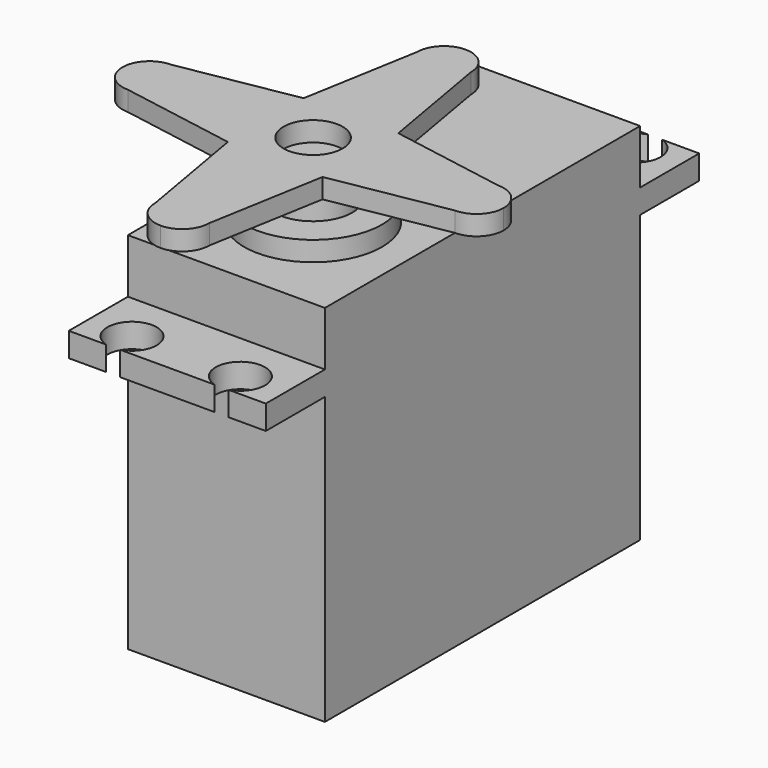
from build123d import *

# Parameters (mm, degrees)
F0_R     = 7
F0_R_2   = 3
F1_DEPTH = 2
F2_DEPTH = 5.5
F0_W     = 20
F0_H     = 40
F3_DEPTH = 37
F4_START = -5.5
F4_DEPTH = 2.45
F5_R     = 4
F5_R_2   = 3
F6_DEPTH = 2
F7_DEPTH = 3.4


with BuildPart() as f1:
    # F0 (on Top) → F1 (new body)
    with BuildSketch(Plane.XY):
        Circle(F0_R)
        Circle(F0_R_2, mode=Mode.SUBTRACT)
        Circle(F0_R_2)
    extrude(amount=F1_DEPTH)

    # F0 (on Top) → F2 (join)
    with BuildSketch(Plane.XY):
        Circle(F0_R_2)
    extrude(amount=F2_DEPTH)

    # F0 (on Top) → F3 (join)
    with BuildSketch(Plane.XY):
        with Locations((0, 9)):
            Rectangle(F0_W, F0_H)
        Circle(F0_R, mode=Mode.SUBTRACT)
        Circle(F0_R)
        Circle(F0_R_2, mode=Mode.SUBTRACT)
        Circle(F0_R_2)
    extrude(amount=-F3_DEPTH)

    # F0 (on Top) → F4 (join)
    with BuildSketch(Plane.XY.offset(F4_START)):
        with BuildLine():
            Line((-10, 29), (10, 29))
            Line((10, 29), (10, 36.5))
            Line((10, 36.5), (6.2, 36.5))
            ThreePointArc((6.2, 36.5), (7.5, 35.6), (8, 34.1))
            ThreePointArc((8, 34.1), (4, 32.1), (4.8, 36.5))
            Line((4.8, 36.5), (-4.3294117647, 36.5))
            ThreePointArc((-4.3294117647, 36.5), (-3.0294117647, 35.6), (-2.5294117647, 34.1))
            ThreePointArc((-2.5294117647, 34.1), (-6.5294117647, 32.1), (-5.7294117647, 36.5))
            Line((-5.7294117647, 36.5), (-10, 36.5))
            Line((-10, 36.5), (-10, 29))
        make_face()
        with BuildLine():
            Line((6.2, -18.5), (10, -18.5))
            Line((10, -18.5), (10, -11))
            Line((10, -11), (-10, -11))
            Line((-10, -11), (-10, -18.5))
            Line((-10, -18.5), (-6.2, -18.5))
            ThreePointArc((-6.2, -18.5), (-7, -14.1), (-3, -16.1))
            ThreePointArc((-3, -16.1), (-3.5, -17.6), (-4.8, -18.5))
            Line((-4.8, -18.5), (4.8, -18.5))
            ThreePointArc((4.8, -18.5), (4, -14.1), (8, -16.1))
            ThreePointArc((8, -16.1), (7.5, -17.6), (6.2, -18.5))
        make_face()
    extrude(amount=-F4_DEPTH)


with BuildPart() as f6:
    # F5 (on face) → F6 (new body)
    with BuildSketch(Plane.XY.offset(5.5)):
        with BuildLine():
            ThreePointArc((-16.6, 2.75), (-18.5445436483, 1.9445436483), (-19.35, 0))
            ThreePointArc((-19.35, 0), (-18.5445436483, -1.9445436483), (-16.6, -2.75))
            Line((-16.6, -2.75), (-4.8083261121, -4.8083261121))
            Line((-4.8083261121, -4.8083261121), (-2.75, -16.6))
            ThreePointArc((-2.75, -16.6), (-1.9445436483, -18.5445436483), (0, -19.35))
            ThreePointArc((0, -19.35), (1.9445436483, -18.5445436483), (2.75, -16.6))
            Line((2.75, -16.6), (4.8083261121, -4.8083261121))
            Line((4.8083261121, -4.8083261121), (16.6, -2.75))
            ThreePointArc((16.6, -2.75), (18.5445436483, -1.9445436483), (19.35, 0))
            ThreePointArc((19.35, 0), (18.5445436483, 1.9445436483), (16.6, 2.75))
            Line((16.6, 2.75), (4.8083261121, 4.8083261121))
            Line((4.8083261121, 4.8083261121), (2.75, 16.6))
            ThreePointArc((2.75, 16.6), (1.9445436483, 18.5445436483), (0, 19.35))
            ThreePointArc((0, 19.35), (-1.9445436483, 18.5445436483), (-2.75, 16.6))
            Line((-2.75, 16.6), (-4.8083261121, 4.8083261121))
            Line((-4.8083261121, 4.8083261121), (-16.6, 2.75))
        make_face()
        Circle(F5_R, mode=Mode.SUBTRACT)
        Circle(F5_R)
        Circle(F5_R_2, mode=Mode.SUBTRACT)
    extrude(amount=F6_DEPTH)

    # F5 (on face) → F7 (join)
    with BuildSketch(Plane.XY.offset(5.5)):
        Circle(F5_R)
        Circle(F5_R_2, mode=Mode.SUBTRACT)
    extrude(amount=-F7_DEPTH)


solid = Compound([f1.part, f6.part])
